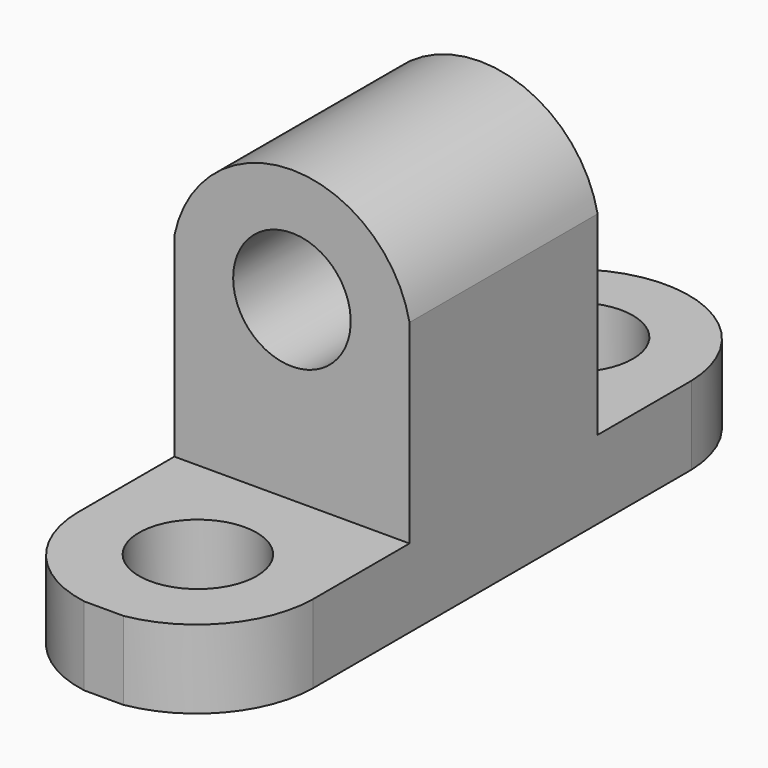
from build123d import *

# Parameters (mm, degrees)
F1_DEPTH  = 25.4
F2_R      = 6.35
F3_DEPTH  = 25.4
F4_R      = 6.35
F5_DEPTH  = 25.4
F7_DEPTH  = 25.4
F9_DEPTH  = 25.4
F11_DEPTH = 25.4


with BuildPart() as f1:
    # F0 (on Right) → F1 (new body)
    with BuildSketch(Plane.YZ):
        Polygon((0, 8.4666666667), (0, 0), (76.2, 0), (76.2, 8.4666666667), (50.8, 8.4666666667), (50.8, 40.2166666667), (25.4, 40.2166666667), (25.4, 8.4666666667), align=None)
    extrude(amount=F1_DEPTH)

    # F2 (on face) → F3 (cut)
    with BuildSketch(Plane(origin=(0, 50.8, 0), x_dir=(-1, 0, 0), z_dir=(0, 1, 0))):
        with Locations((-12.7, 27.5166666667)):
            Circle(F2_R)
    extrude(amount=-F3_DEPTH, mode=Mode.SUBTRACT)

    # F4 (on face) → F5 (cut)
    with BuildSketch(Plane.XY.offset(8.4666666667)):
        with Locations((12.7, 63.5)):
            Circle(F4_R)
        with Locations((12.7, 12.7)):
            Circle(F4_R)
    extrude(amount=-F5_DEPTH, mode=Mode.SUBTRACT)

    # F6 (on face) → F7 (cut)
    with BuildSketch(Plane.XY.offset(8.4666666667)):
        with BuildLine():
            ThreePointArc((0, 63.5), (12.7, 75.8324942144), (25.4, 63.5))
            Line((25.4, 63.5), (25.4, 76.2))
            Line((25.4, 76.2), (0, 76.2))
            Line((0, 76.2), (0, 63.5))
        make_face()
    extrude(amount=-F7_DEPTH, mode=Mode.SUBTRACT)

    # F8 (on face) → F9 (cut)
    with BuildSketch(Plane.XY.offset(8.4666666667)):
        with BuildLine():
            ThreePointArc((10.5819482078, 0), (3.0561269403, 4.2579759584), (0, 12.3467603626))
            Line((0, 12.3467603626), (0, 0))
            Line((0, 0), (10.5819482078, 0))
        make_face()
        with BuildLine():
            ThreePointArc((25.4, 12.3467603626), (22.3438730597, 4.2579759584), (14.8180517922, 0))
            Line((14.8180517922, 0), (25.4, 0))
            Line((25.4, 0), (25.4, 12.3467603626))
        make_face()
    extrude(amount=-F9_DEPTH, mode=Mode.SUBTRACT)

    # F10 (on face) → F11 (cut)
    with BuildSketch(Plane.XZ.offset(-25.4)):
        with BuildLine():
            ThreePointArc((0, 29.4869819596), (12.7, 39.8722781395), (25.4, 29.4869819596))
            Line((25.4, 29.4869819596), (25.4, 40.2166666667))
            Line((25.4, 40.2166666667), (0, 40.2166666667))
            Line((0, 40.2166666667), (0, 29.4869819596))
        make_face()
    extrude(amount=-F11_DEPTH, mode=Mode.SUBTRACT)


solid = f1.part
